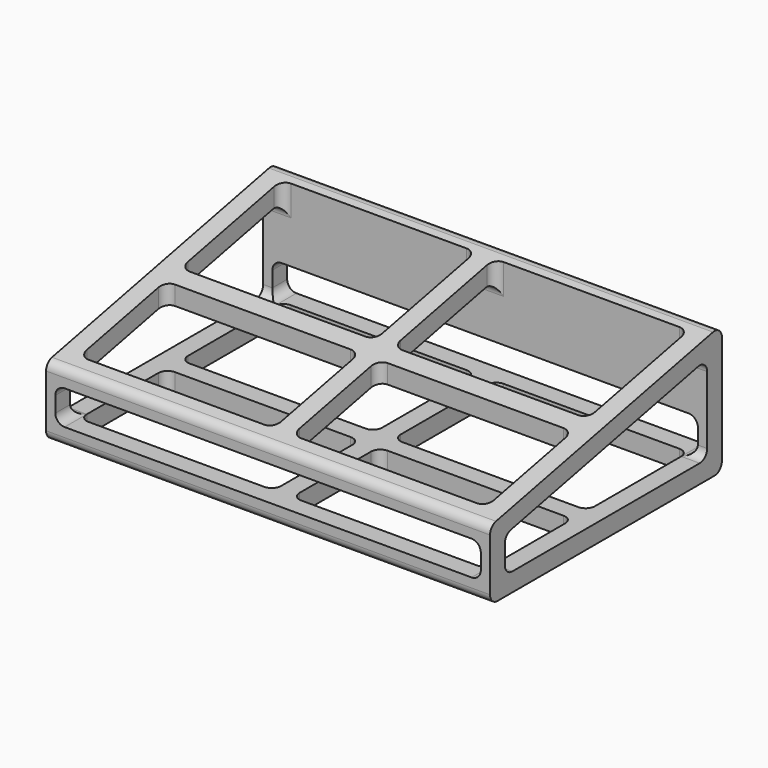
from build123d import *

# Parameters (mm, degrees)
F1_DEPTH      = 152.4
F3_DEPTH      = 31.3066191365
F3_DEPTH_BACK = 12.4195989383
F5_DEPTH      = 44.0383275452
F5_DEPTH_BACK = 55.4480327378


with BuildPart() as f1:
    # F0 (on Right) → F1 (new body)
    with BuildSketch(Plane.YZ):
        with BuildLine():
            Line((-52.2720327378, -31.3056191365), (40.8623275452, -31.3056191365))
            ThreePointArc((40.8623275452, -31.3056191365), (43.1073915755, -30.3756831668), (44.0373275452, -28.1306191365))
            Line((44.0373275452, -28.1306191365), (44.0373275452, 9.2435989383))
            ThreePointArc((44.0373275452, 9.2435989383), (42.8665933303, 11.7060253155), (40.217772482, 12.3524851972))
            Line((40.217772482, 12.3524851972), (-52.916587801, -6.9567524158))
            ThreePointArc((-52.916587801, -6.9567524158), (-54.7344591149, -8.0613728896), (-55.4470327378, -10.0656386747))
            Line((-55.4470327378, -10.0656386747), (-55.4470327378, -28.1306191365))
            ThreePointArc((-55.4470327378, -28.1306191365), (-54.517096768, -30.3756831668), (-52.2720327378, -31.3056191365))
        make_face()
        with BuildLine():
            Line((34.5123275452, -24.9556191365), (-45.9220327378, -24.9556191365))
            ThreePointArc((-45.9220327378, -24.9556191365), (-48.167096768, -24.0256831668), (-49.0970327378, -21.7806191365))
            Line((-49.0970327378, -21.7806191365), (-49.0970327378, -15.2341537024))
            ThreePointArc((-49.0970327378, -15.2341537024), (-48.3844591149, -13.2298879174), (-46.566587801, -12.1252674435))
            Line((-46.566587801, -12.1252674435), (33.867772482, 4.5509213469))
            ThreePointArc((33.867772482, 4.5509213469), (36.5165933303, 3.9044614652), (37.6873275452, 1.442035088))
            Line((37.6873275452, 1.442035088), (37.6873275452, -21.7806191365))
            ThreePointArc((37.6873275452, -21.7806191365), (36.7573915755, -24.0256831668), (34.5123275452, -24.9556191365))
        make_face(mode=Mode.SUBTRACT)
    extrude(amount=F1_DEPTH)

    # F2 (on Top) → F3 (cut, two sides)
    with BuildSketch(Plane.XY) as f3_sk:
        with BuildLine():
            ThreePointArc((79.375, -2.5298525963), (79.5841256968, -3.663084531), (80.18395409, -4.6470327378))
            Line((80.18395409, -4.6470327378), (145.24104591, -4.6470327378))
            ThreePointArc((145.24104591, -4.6470327378), (145.8408743032, -3.663084531), (146.05, -2.5298525963))
            Line((146.05, -2.5298525963), (146.05, 34.5123275452))
            ThreePointArc((146.05, 34.5123275452), (145.1200640303, 36.7573915755), (142.875, 37.6873275452))
            Line((142.875, 37.6873275452), (82.55, 37.6873275452))
            ThreePointArc((82.55, 37.6873275452), (80.3049359697, 36.7573915755), (79.375, 34.5123275452))
            Line((79.375, 34.5123275452), (79.375, -2.5298525963))
        make_face()
        with BuildLine():
            Line((145.24104591, -4.6470327378), (80.18395409, -4.6470327378))
            ThreePointArc((80.18395409, -4.6470327378), (81.2541261538, -5.4283584139), (82.55, -5.7048525963))
            Line((82.55, -5.7048525963), (142.875, -5.7048525963))
            ThreePointArc((142.875, -5.7048525963), (144.1708738462, -5.4283584139), (145.24104591, -4.6470327378))
        make_face()
        with BuildLine():
            Line((69.85, 37.6873275452), (9.525, 37.6873275452))
            ThreePointArc((9.525, 37.6873275452), (7.2799359697, 36.7573915755), (6.35, 34.5123275452))
            Line((6.35, 34.5123275452), (6.35, -2.5298525963))
            ThreePointArc((6.35, -2.5298525963), (6.5591256968, -3.663084531), (7.15895409, -4.6470327378))
            Line((7.15895409, -4.6470327378), (72.21604591, -4.6470327378))
            ThreePointArc((72.21604591, -4.6470327378), (72.8158743032, -3.663084531), (73.025, -2.5298525963))
            Line((73.025, -2.5298525963), (73.025, 34.5123275452))
            ThreePointArc((73.025, 34.5123275452), (72.0950640303, 36.7573915755), (69.85, 37.6873275452))
        make_face()
        with BuildLine():
            Line((72.21604591, -4.6470327378), (7.15895409, -4.6470327378))
            ThreePointArc((7.15895409, -4.6470327378), (8.2291261538, -5.4283584139), (9.525, -5.7048525963))
            Line((9.525, -5.7048525963), (69.85, -5.7048525963))
            ThreePointArc((69.85, -5.7048525963), (71.1458738462, -5.4283584139), (72.21604591, -4.6470327378))
        make_face()
        with BuildLine():
            Line((69.85, -12.0548525963), (9.525, -12.0548525963))
            ThreePointArc((9.525, -12.0548525963), (7.2799359697, -12.984788566), (6.35, -15.2298525963))
            Line((6.35, -15.2298525963), (6.35, -45.9220327378))
            ThreePointArc((6.35, -45.9220327378), (7.2799359697, -48.167096768), (9.525, -49.0970327378))
            Line((9.525, -49.0970327378), (69.85, -49.0970327378))
            ThreePointArc((69.85, -49.0970327378), (72.0950640303, -48.167096768), (73.025, -45.9220327378))
            Line((73.025, -45.9220327378), (73.025, -15.2298525963))
            ThreePointArc((73.025, -15.2298525963), (72.0950640303, -12.984788566), (69.85, -12.0548525963))
        make_face()
        with BuildLine():
            ThreePointArc((82.55, -12.0548525963), (80.3049359697, -12.984788566), (79.375, -15.2298525963))
            Line((79.375, -15.2298525963), (79.375, -45.9220327378))
            ThreePointArc((79.375, -45.9220327378), (80.3049359697, -48.167096768), (82.55, -49.0970327378))
            Line((82.55, -49.0970327378), (142.875, -49.0970327378))
            ThreePointArc((142.875, -49.0970327378), (145.1200640303, -48.167096768), (146.05, -45.9220327378))
            Line((146.05, -45.9220327378), (146.05, -15.2298525963))
            ThreePointArc((146.05, -15.2298525963), (145.1200640303, -12.984788566), (142.875, -12.0548525963))
            Line((142.875, -12.0548525963), (82.55, -12.0548525963))
        make_face()
    extrude(amount=-F3_DEPTH, mode=Mode.SUBTRACT)
    extrude(f3_sk.sketch, amount=F3_DEPTH_BACK, mode=Mode.SUBTRACT)

    # F4 (on Front) → F5 (cut, two sides)
    with BuildSketch(Plane.XZ) as f5_sk:
        with BuildLine():
            Line((146.05, -13.2406386747), (6.35, -13.2406386747))
            ThreePointArc((6.35, -13.2406386747), (4.1049359697, -14.1705746444), (3.175, -16.4156386747))
            Line((3.175, -16.4156386747), (3.175, -21.7806191365))
            ThreePointArc((3.175, -21.7806191365), (4.1049359697, -24.0256831668), (6.35, -24.9556191365))
            Line((6.35, -24.9556191365), (146.05, -24.9556191365))
            ThreePointArc((146.05, -24.9556191365), (148.2950640303, -24.0256831668), (149.225, -21.7806191365))
            Line((149.225, -21.7806191365), (149.225, -16.4156386747))
            ThreePointArc((149.225, -16.4156386747), (148.2950640303, -14.1705746444), (146.05, -13.2406386747))
        make_face()
    extrude(amount=-F5_DEPTH, mode=Mode.SUBTRACT)
    extrude(f5_sk.sketch, amount=F5_DEPTH_BACK, mode=Mode.SUBTRACT)


solid = f1.part
